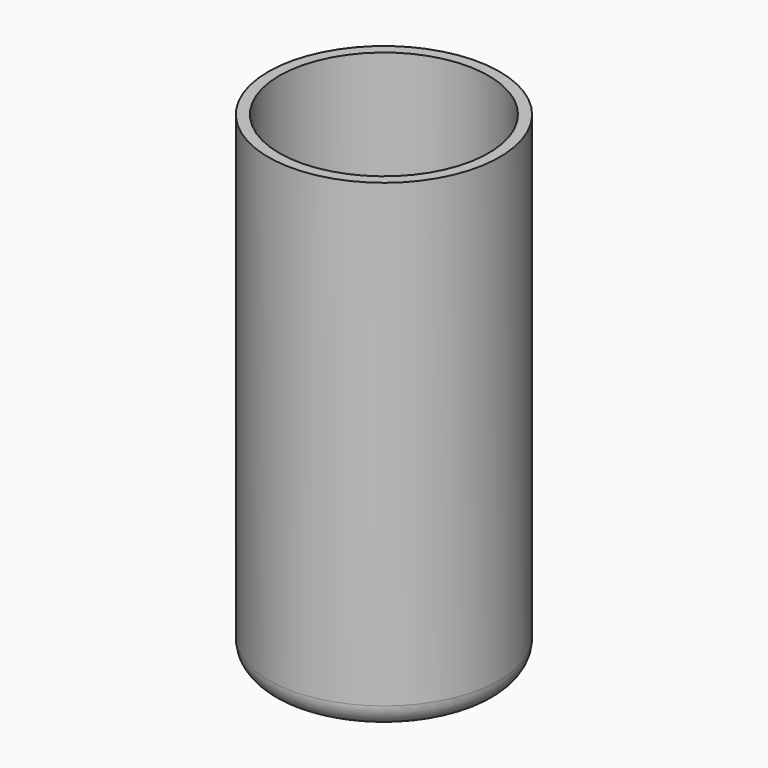
from build123d import *

# Parameters (mm, degrees)
F2_R = 4.2248737342


with BuildPart() as f1:
    # F0 (on Front) → F1 (revolve)
    with BuildSketch(Plane.XZ):
        with BuildLine():
            Line((-9.2264421542, 14), (-5.05, 14))
            add(Edge.make_bspline(
                [(-5.05, 14), (-5.2072363825, 14.0810028272), (-7.9343017899, 13.3850205174), (-7.9161451117, 27.8848960237), (-7.9913089744, 29.7148263859), (-7.9540337168, 30.2082094767)],
                knots=[0, 0, 0, 0, 0.1839441933, 0.7528458391, 1, 1, 1, 1], degree=3))
            Line((-7.9540337168, 30.2082094767), (-7.9540337168, 39.2082094767))
            Line((-7.9540337168, 39.2082094767), (-9.9539440577, 39.2271469541))
            Line((-9.9539440577, 39.2271469541), (-9.9539440577, 30.2271469541))
            add(Edge.make_bspline(
                [(-9.2264421542, 14), (-9.3868926202, 14.0217893951), (-10.5124276426, 14.24964973), (-10.0890154715, 27.7222878167), (-10.0266310522, 30), (-9.9539440577, 30.2271469541)],
                knots=[0, 0, 0, 0, 0.1370918561, 0.7422285722, 1, 1, 1, 1], degree=3))
        make_face()
        with BuildLine():
            Line((-8.05, 0), (-5.05, 0))
            Line((-5.05, 0), (-5.05, 4))
            Line((-5.05, 4), (-4.75, 4))
            Line((-4.75, 4), (-4.75, 14))
            Line((-4.75, 14), (-5.05, 14))
            Line((-5.05, 14), (-9.2264421542, 14))
            Line((-9.2264421542, 14), (-9.2264421542, 2.4549234658))
            add(Edge.make_bspline(
                [(-19.05, 5.2343760617), (-18.8808851703, 4.2130953372), (-18.5850778449, 1.9601937624), (-12.7121775245, 1.892012544), (-10.6474171038, 2.2360002455), (-9.2264421542, 2.4549234658)],
                knots=[0, 0, 0, 0, 0.2839843179, 0.664766452, 1, 1, 1, 1], degree=3))
            Line((-19.05, 5.2343760617), (-19.05, 88))
            Line((-19.05, 88), (-21.05, 88))
            Line((-21.05, 88), (-21.05, 0))
            Line((-21.05, 0), (-8.05, 0))
        make_face()
    revolve(axis=Axis((0, 0, 10.4999532923), (0, 0, 1)))

    # F2
    f2_edges = [f1.edges().sort_by_distance(p)[0] for p in [
        (21.05, 0, 0),
    ]]
    fillet(f2_edges, radius=F2_R)


solid = f1.part
